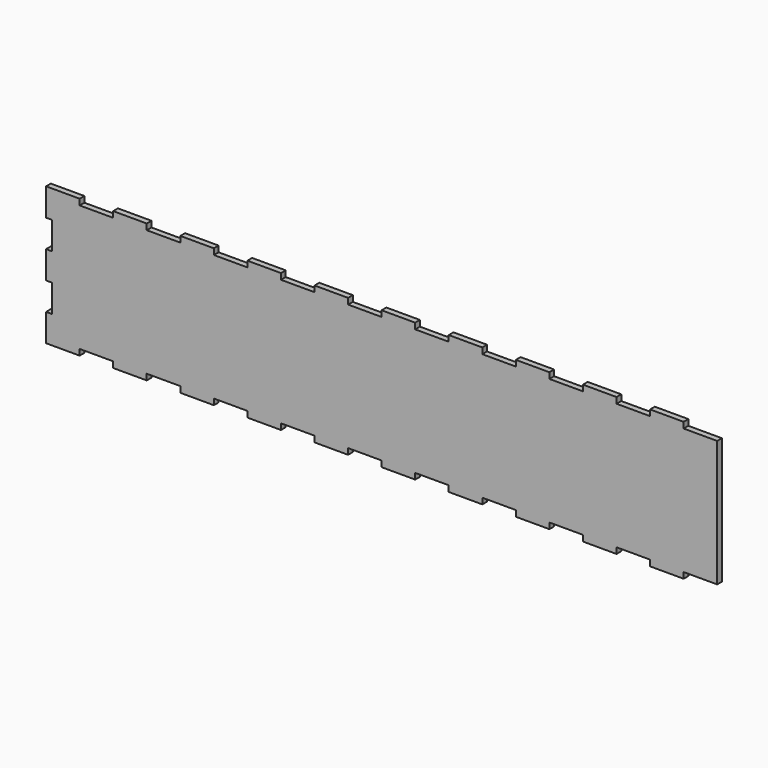
from build123d import *

# Parameters (mm, degrees)
F1_DEPTH = 3


with BuildPart() as f1:
    # F0 (on Front) → F1 (new body)
    with BuildSketch(Plane.XZ):
        Polygon((153, 32), (153, 35), (136, 35), (136, 32), (119, 32), (119, 35), (102, 35), (102, 32), (85, 32), (85, 35), (68, 35), (68, 32), (51, 32), (51, 35), (34, 35), (34, 32), (17, 32), (17, 35), (0, 35), (0, 32), (-17, 32), (-17, 35), (-34, 35), (-34, 32), (-51, 32), (-51, 35), (-68, 35), (-68, 32), (-85, 32), (-85, 35), (-102, 35), (-102, 32), (-119, 32), (-119, 35), (-136, 35), (-136, 32), (-153, 32), (-153, 35), (-170, 35), (-170, 21), (-167, 21), (-167, 7), (-170, 7), (-170, -7), (-167, -7), (-167, -21), (-170, -21), (-170, -35), (-153, -35), (-153, -32), (-136, -32), (-136, -35), (-119, -35), (-119, -32), (-102, -32), (-102, -35), (-85, -35), (-85, -32), (-68, -32), (-68, -35), (-51, -35), (-51, -32), (-34, -32), (-34, -35), (-17, -35), (-17, -32), (0, -32), (0, -35), (17, -35), (17, -32), (34, -32), (34, -35), (51, -35), (51, -32), (68, -32), (68, -35), (85, -35), (85, -32), (102, -32), (102, -35), (119, -35), (119, -32), (136, -32), (136, -35), (153, -35), (153, -32), (170, -32), (170, 32), align=None)
    extrude(amount=F1_DEPTH)


solid = f1.part
